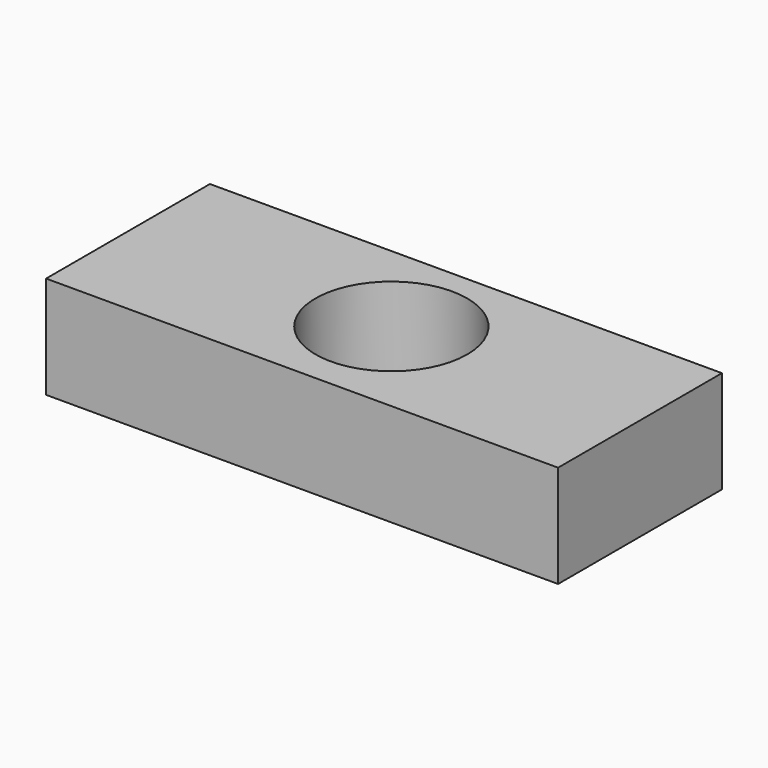
from build123d import *

# Parameters (mm, degrees)
F0_W     = 1000
F0_H     = 400
F0_R     = 148.213347
F1_DEPTH = 200


with BuildPart() as f1:
    # F0 (on Top) → F1 (new body)
    with BuildSketch(Plane.XY):
        with Locations((131.001905, -25.449454)):
            Rectangle(F0_W, F0_H)
        with Locations((140.926272, -19.848771)):
            Circle(F0_R, mode=Mode.SUBTRACT)
    extrude(amount=-F1_DEPTH)


solid = f1.part
